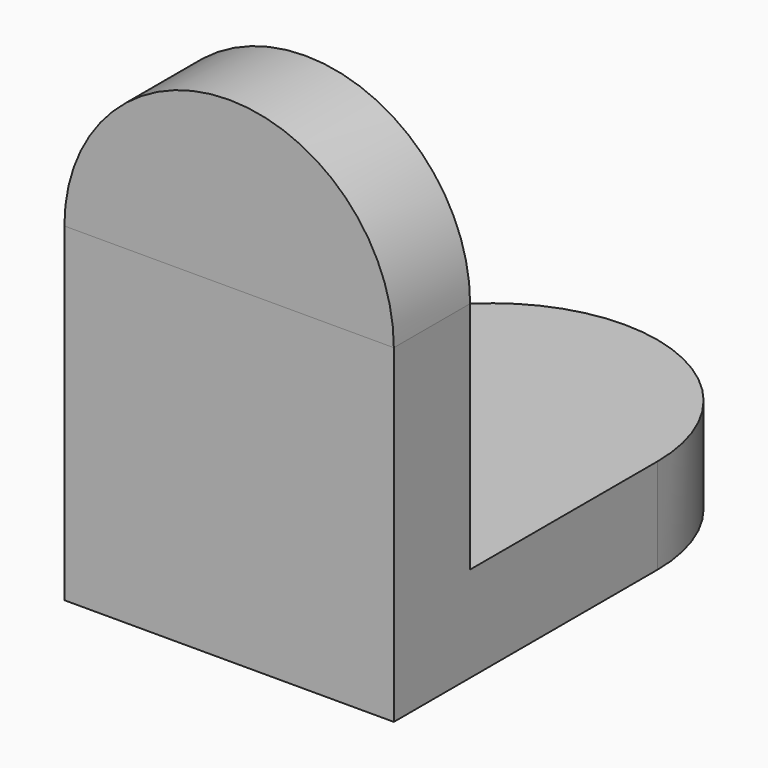
from build123d import *

# Parameters (mm, degrees)
F1_DEPTH = 482.6
F4_DEPTH = 279.4
F5_DEPTH = 279.4


with BuildPart() as f1:
    # F0 (on Right) → F1 (new body, symmetric)
    with BuildSketch(Plane.YZ):
        Polygon((0, 685.8), (-279.4, 685.8), (-279.4, -279.4), (685.8, -279.4), (685.8, 0), (0, 0), align=None)
    extrude(amount=F1_DEPTH, both=True)

    # F3 (on face) → F4 (join)
    with BuildSketch(Plane.XY):
        with BuildLine():
            Line((-482.6, 685.8), (482.6, 685.8))
            ThreePointArc((482.6, 685.8), (0, 1168.4), (-482.6, 685.8))
        make_face()
    extrude(amount=-F4_DEPTH)


with BuildPart() as f5:
    # F2 (on face) → F5 (new body)
    with BuildSketch(Plane(origin=(0, 0, 0), x_dir=(-1, 0, 0), z_dir=(0, 1, 0))):
        with BuildLine():
            Line((-482.6, 685.8), (482.6, 685.8))
            ThreePointArc((482.6, 685.8), (0, 1168.4), (-482.6, 685.8))
        make_face()
    extrude(amount=-F5_DEPTH)


solid = Compound([f1.part, f5.part])
